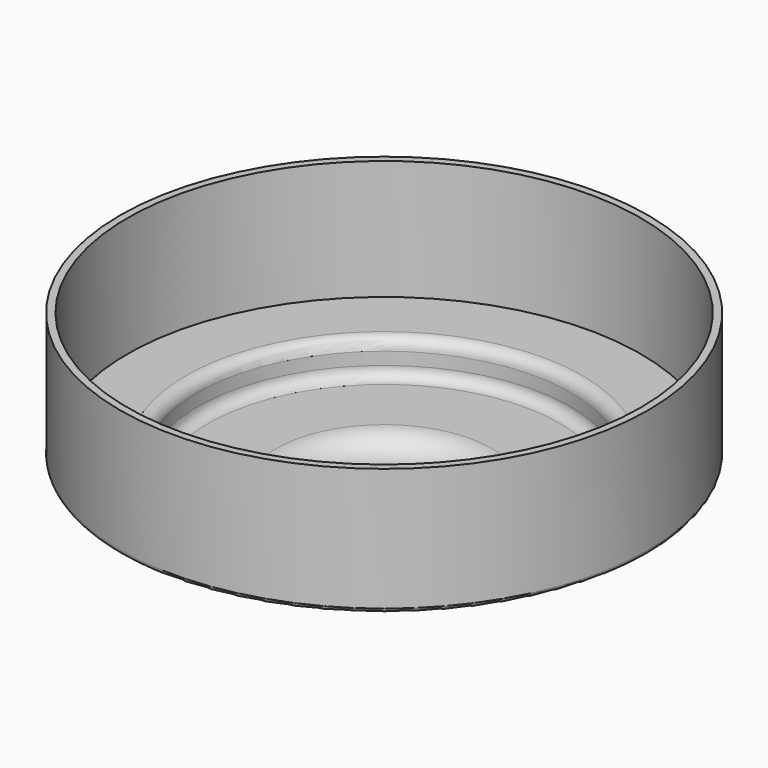
from build123d import *

# Parameters (mm, degrees)
F2_T = -2.54


with BuildPart() as f1:
    # F0 (on Front) → F1 (revolve)
    with BuildSketch(Plane.XZ):
        with BuildLine():
            Line((0, 72.617948), (0, 0))
            Line((0, 0), (31.03048, 0))
            Line((31.03048, 0), (31.03048, 10.149501))
            ThreePointArc((31.03048, 10.149501), (32.890352, 14.639629), (37.38048, 16.499501))
            Line((37.38048, 16.499501), (60.955945, 16.499501))
            ThreePointArc((60.955945, 16.499501), (65.446073, 18.359373), (67.305945, 22.849501))
            Line((67.305945, 22.849501), (67.305945, 27.205774))
            ThreePointArc((67.305945, 27.205774), (67.711762, 28.185503), (68.691491, 28.59132))
            Line((68.691491, 28.59132), (90.104037, 28.59132))
            ThreePointArc((90.104037, 28.59132), (91.083766, 28.997137), (91.489583, 29.976866))
            Line((91.489583, 29.976866), (91.489583, 72.617948))
            Line((91.489583, 72.617948), (0, 72.617948))
        make_face()
    revolve(axis=Axis((0, 0, 36.308974), (0, 0, -1)))

    # F2
    f2_openings = [f1.faces().sort_by_distance(p)[0] for p in [
        (0, 0, 72.617948),
    ]]
    offset(amount=F2_T, openings=f2_openings)


solid = f1.part
